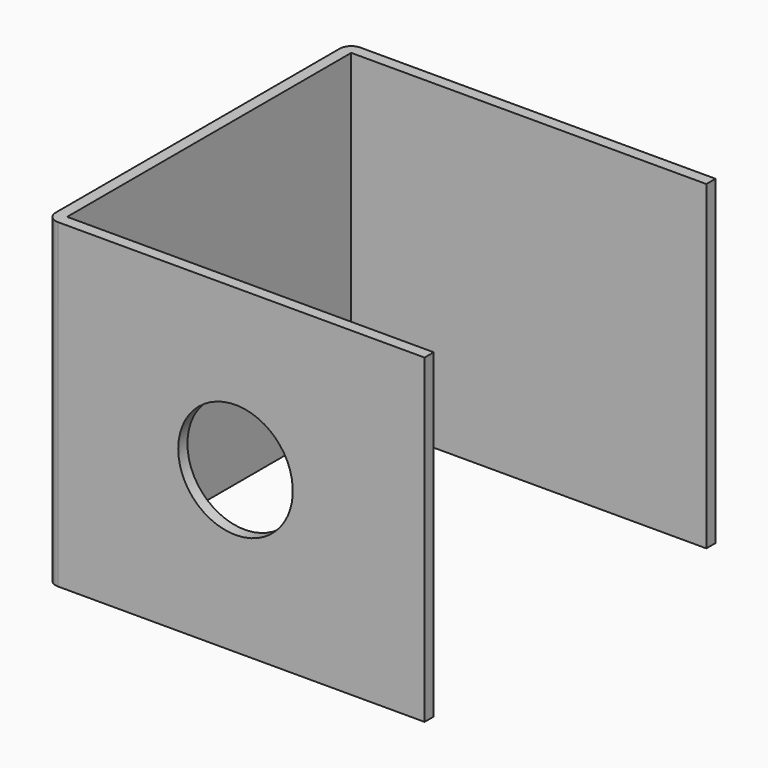
from build123d import *

# Parameters (mm, degrees)
F0_W     = 101.6
F0_H     = 88.9
F1_DEPTH = 3.175
F2_W     = 3.175
F2_H     = 88.9
F3_DEPTH = 101.6
F4_W     = 3.175
F4_H     = 88.9
F5_DEPTH = 101.6
F7_DEPTH = 3.175
F8_R     = 3.175


with BuildPart() as f1:
    # F0 (on Front) → F1 (new body)
    with BuildSketch(Plane.XZ):
        with Locations((50.8, 44.45)):
            Rectangle(F0_W, F0_H)
    extrude(amount=F1_DEPTH)

    # F2 (on face) → F3 (join)
    with BuildSketch(Plane.XZ.offset(3.175)):
        with Locations((1.5875, 44.45)):
            Rectangle(F2_W, F2_H)
    extrude(amount=F3_DEPTH)

    # F4 (on face) → F5 (join)
    with BuildSketch(Plane.YZ.offset(3.175)):
        with Locations((-103.1875, 44.45)):
            Rectangle(F4_W, F4_H)
    extrude(amount=F5_DEPTH)

    # F6 (on face) → F7 (cut, through all)
    with BuildSketch(Plane.XZ.offset(104.775)):
        with BuildLine():
            Line((36.5125, 44.45), (68.2625, 44.45))
            ThreePointArc((68.2625, 44.45), (52.3875, 60.325), (36.5125, 44.45))
        make_face()
        with BuildLine():
            ThreePointArc((36.5125, 44.45), (52.3875, 28.575), (68.2625, 44.45))
            Line((68.2625, 44.45), (36.5125, 44.45))
        make_face()
    extrude(amount=-F7_DEPTH, mode=Mode.SUBTRACT)

    # F8
    f8_edges = [f1.edges().sort_by_distance(p)[0] for p in [
        (0, -104.775, 44.45),
        (0, 0, 44.45),
    ]]
    fillet(f8_edges, radius=F8_R)


solid = f1.part
